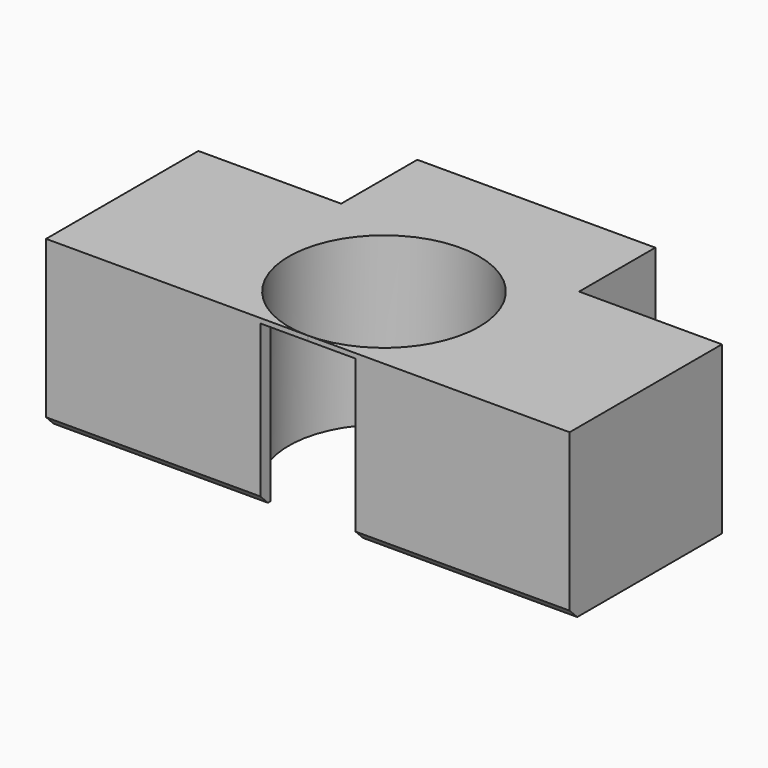
from build123d import *

# Parameters (mm, degrees)
BOX021_W           = 4
BOX021_H           = 10
BOX021_DEPTH       = 6.8
CYLINDER023_R      = 4
CYLINDER023_DEPTH  = 10
BOX020_W           = 22
BOX020_H           = 8
BOX020_DEPTH       = 7
BOX019_W           = 10
BOX019_H           = 12
BOX019_DEPTH       = 7
CHAMFER007017_SIZE = 0.4


with BuildPart() as cube019:
    # Box021 → Box021 (new body)
    with BuildSketch(Plane(origin=(-2, -8, 0), x_dir=(1, 0, 0), z_dir=(0, 0, 1))):
        with Locations((2, 5)):
            Rectangle(BOX021_W, BOX021_H)
    extrude(amount=BOX021_DEPTH)


with BuildPart() as cylinder023:
    # Cylinder023 → Cylinder023 (new body)
    with BuildSketch(Plane.XY):
        Circle(CYLINDER023_R)
    extrude(amount=CYLINDER023_DEPTH)


with BuildPart() as cube018:
    # Box020 → Box020 (new body)
    with BuildSketch(Plane(origin=(-11, -4, 0), x_dir=(1, 0, 0), z_dir=(0, 0, 1))):
        with Locations((11, 4)):
            Rectangle(BOX020_W, BOX020_H)
    extrude(amount=BOX020_DEPTH)


with BuildPart() as cut017016003:
    # Box019 → Box019 (new body)
    with BuildSketch(Plane(origin=(-5, -4, 0), x_dir=(1, 0, 0), z_dir=(0, 0, 1))):
        with Locations((5, 6)):
            Rectangle(BOX019_W, BOX019_H)
    extrude(amount=BOX019_DEPTH)

    # Fusion003003006005002: union Cube018
    add(cube018.part)

    # Chamfer007017
    chamfer007017_edges = [cut017016003.edges().sort_by_distance(p)[0] for p in [
        (0, -4, 0),
        (-8, -4, 0),
        (8, -4, 0),
    ]]
    chamfer(chamfer007017_edges, length=CHAMFER007017_SIZE)

    # Cut017016002: cut Cylinder023
    add(cylinder023.part, mode=Mode.SUBTRACT)

    # Cut017016003: cut Cube019
    add(cube019.part, mode=Mode.SUBTRACT)


solid = cut017016003.part
